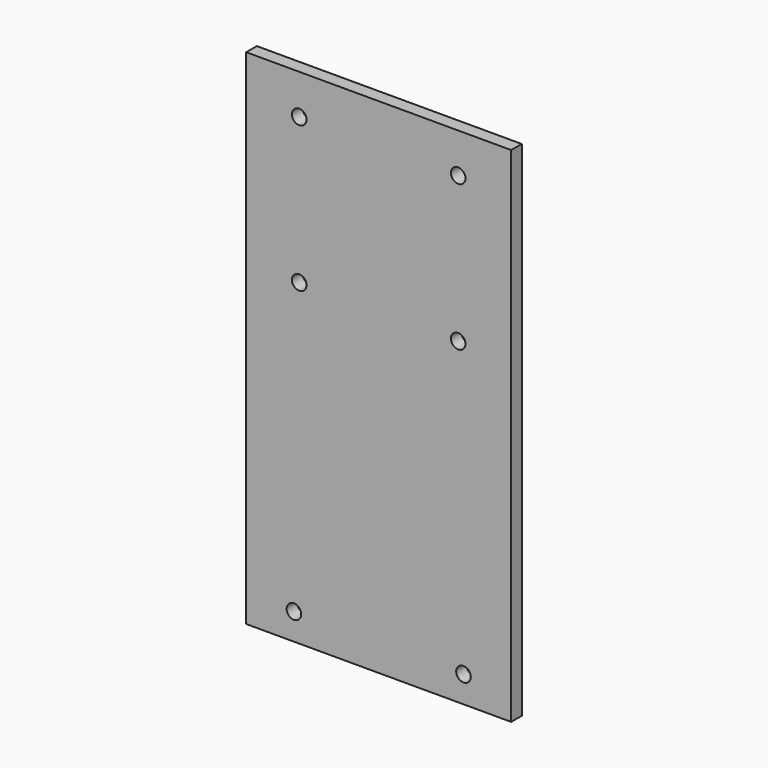
from build123d import *

# Parameters (mm, degrees)
F0_W     = 100
F0_H     = 190
F0_R     = 2.75
F1_DEPTH = 5
F3_R     = 7.5
F3_R_2   = 2.75
F4_DEPTH = 5


with BuildPart() as f1:
    # F0 (on Front) → F1 (new body)
    with BuildSketch(Plane.XZ):
        Rectangle(F0_W, F0_H)
        with Locations((-32, -85)):
            Circle(F0_R, mode=Mode.SUBTRACT)
        with Locations((32, -85)):
            Circle(F0_R, mode=Mode.SUBTRACT)
        with Locations((-30, 25)):
            Circle(F0_R, mode=Mode.SUBTRACT)
        with Locations((-30, 80)):
            Circle(F0_R, mode=Mode.SUBTRACT)
        with Locations((30, 25)):
            Circle(F0_R, mode=Mode.SUBTRACT)
        with Locations((30, 80)):
            Circle(F0_R, mode=Mode.SUBTRACT)
    extrude(amount=F1_DEPTH)


with BuildPart() as f4:
    # F3 (on face) → F4 (new body)
    with BuildSketch(Plane(origin=(0, 0, 0), x_dir=(-1, 0, 0), z_dir=(0, 1, 0))):
        with Locations((-30, 80)):
            Circle(F3_R)
        with Locations((-30, 80)):
            Circle(F3_R_2, mode=Mode.SUBTRACT)
    extrude(amount=F4_DEPTH)


solid = Compound([f1.part, f4.part])
